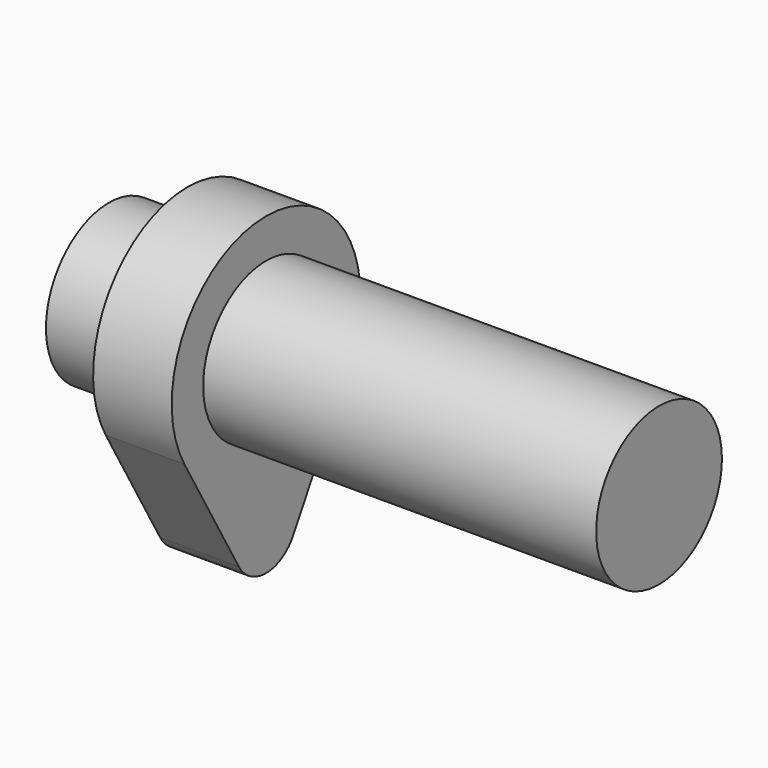
from build123d import *

# Parameters (mm, degrees)
F0_R          = 12.7
F1_DEPTH      = 76.2
F1_DEPTH_BACK = 12.7
F2_DEPTH      = 12.7


with BuildPart() as f1:
    # F0 (on Right) → F1 (new body, two sides)
    with BuildSketch(Plane.YZ) as f1_sk:
        Circle(F0_R)
    extrude(amount=F1_DEPTH)
    extrude(f1_sk.sketch, amount=-F1_DEPTH_BACK)


with BuildPart() as f2:
    # F0 (on Right) → F2 (new body)
    with BuildSketch(Plane.YZ):
        with BuildLine():
            Line((5.499261, -28.575), (16.497784, -9.525))
            ThreePointArc((16.497784, -9.525), (-0.000291, 19.05), (-16.497493, -9.525505))
            Line((-16.497493, -9.525505), (-5.499261, -28.575))
            ThreePointArc((-5.499261, -28.575), (0, -31.75), (5.499261, -28.575))
        make_face()
        Circle(F0_R, mode=Mode.SUBTRACT)
    extrude(amount=F2_DEPTH)


solid = Compound([f1.part, f2.part])
